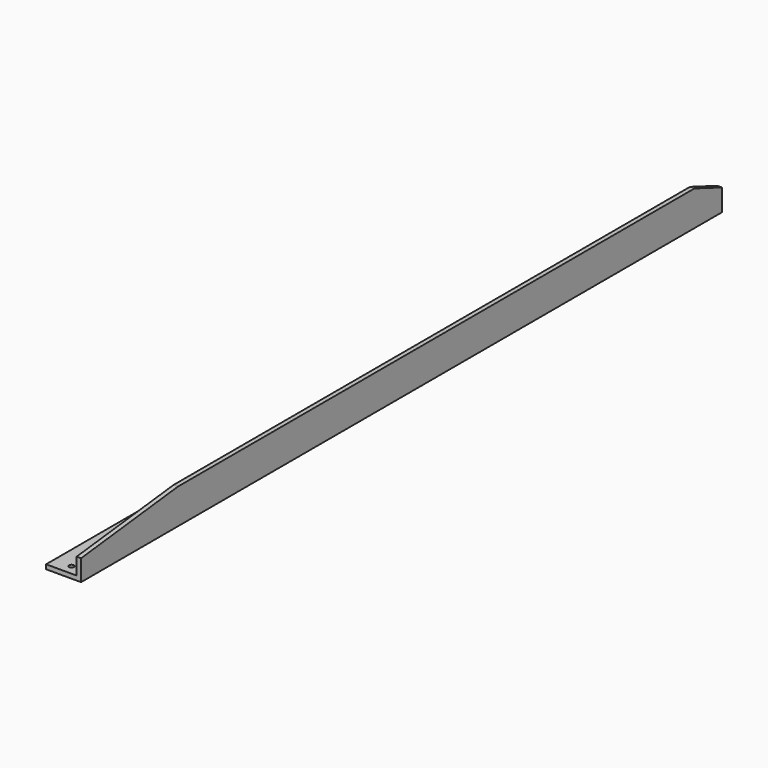
from build123d import *

# Parameters (mm, degrees)
F1_DEPTH = 291
F4_SIZE2 = 25
F4_SIZE  = 9.5
F5_SIZE2 = 10.1
F5_SIZE  = 88
F7_R     = 1.75
F8_DEPTH = 3.2
F3_R     = 1.35
F9_DEPTH = 25


with BuildPart() as f1:
    # F0 (on Front) → F1 (new body, symmetric)
    with BuildSketch(Plane.XZ):
        Polygon((25.4, 12.7), (22.2, 12.7), (22.2, -9.5), (0, -9.5), (0, -12.7), (25.4, -12.7), align=None)
    extrude(amount=F1_DEPTH, both=True)

    # F4
    f4_edges = [f1.edges().sort_by_distance(p)[0] for p in [
        (23.8, 291, 12.7),
    ]]
    f4_side = f1.faces().sort_by_distance((23.8, 291, 12.34079))[0]
    chamfer(f4_edges, length=F4_SIZE, length2=F4_SIZE2, reference=f4_side)

    # F5
    f5_edges = [f1.edges().sort_by_distance(p)[0] for p in [
        (23.8, -291, 12.7),
    ]]
    f5_side = f1.faces().sort_by_distance((23.8, -12.5, 12.7))[0]
    chamfer(f5_edges, length=F5_SIZE, length2=F5_SIZE2, reference=f5_side)

    # F7 (on face) → F8 (cut, through all)
    with BuildSketch(Plane.XY.offset(-9.5)):
        with Locations((12.7, -283.8)):
            Circle(F7_R)
        with Locations((12.7, 283.8)):
            Circle(F7_R)
    extrude(amount=-F8_DEPTH, mode=Mode.SUBTRACT)

    # F3 (on face) → F9 (cut)
    with BuildSketch(Plane(origin=(0, 0, -12.7), x_dir=(1, 0, 0), z_dir=(0, 0, -1))):
        with Locations((16.2, 15)):
            Circle(F3_R)
        with Locations((16.2, -15)):
            Circle(F3_R)
        with Locations((16.2, 140)):
            Circle(F3_R)
        with Locations((16.2, 265)):
            Circle(F3_R)
        with Locations((16.2, -140)):
            Circle(F3_R)
        with Locations((16.2, -265)):
            Circle(F3_R)
    extrude(amount=-F9_DEPTH, mode=Mode.SUBTRACT)


solid = f1.part
